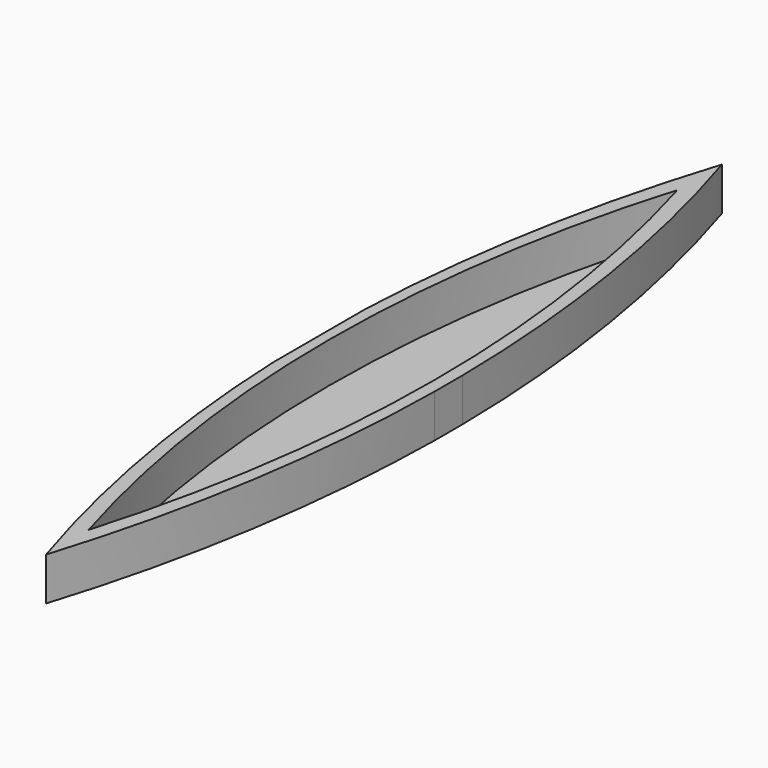
from build123d import *

# Parameters (mm, degrees)
F1_DEPTH = 12.7
F2_DEPTH = 0.79375


with BuildPart() as f1:
    # F0 (on Top) → F1 (new body)
    with BuildSketch(Plane.XY):
        with BuildLine():
            ThreePointArc((-70.959747, 25.759586), (-65.04081, -28.647407), (-51.909747, -81.776775))
            ThreePointArc((-51.909747, -81.776775), (-38.026899, -22.837553), (-32.859747, 37.493748))
            Line((-32.859747, 37.493748), (-32.859747, 47.872701))
            ThreePointArc((-32.859747, 47.872701), (-38.026899, 108.204002), (-51.909747, 167.143225))
            ThreePointArc((-51.909747, 167.143225), (-65.04081, 114.013856), (-70.959747, 59.606863))
            Line((-70.959747, 59.606863), (-70.959747, 25.759586))
        make_face()
        with BuildLine():
            ThreePointArc((-51.950937, 150.787442), (-36.441228, 42.361454), (-51.950937, -66.064534))
            ThreePointArc((-51.950937, -66.064534), (-67.960269, 42.361454), (-51.950937, 150.787442))
        make_face(mode=Mode.SUBTRACT)
    extrude(amount=F1_DEPTH)

    # F0 (on Top) → F2 (join)
    with BuildSketch(Plane.XY):
        with BuildLine():
            ThreePointArc((-51.950937, 150.787442), (-67.960269, 42.361454), (-51.950937, -66.064534))
            ThreePointArc((-51.950937, -66.064534), (-36.441228, 42.361454), (-51.950937, 150.787442))
        make_face()
    extrude(amount=F2_DEPTH)


solid = f1.part
